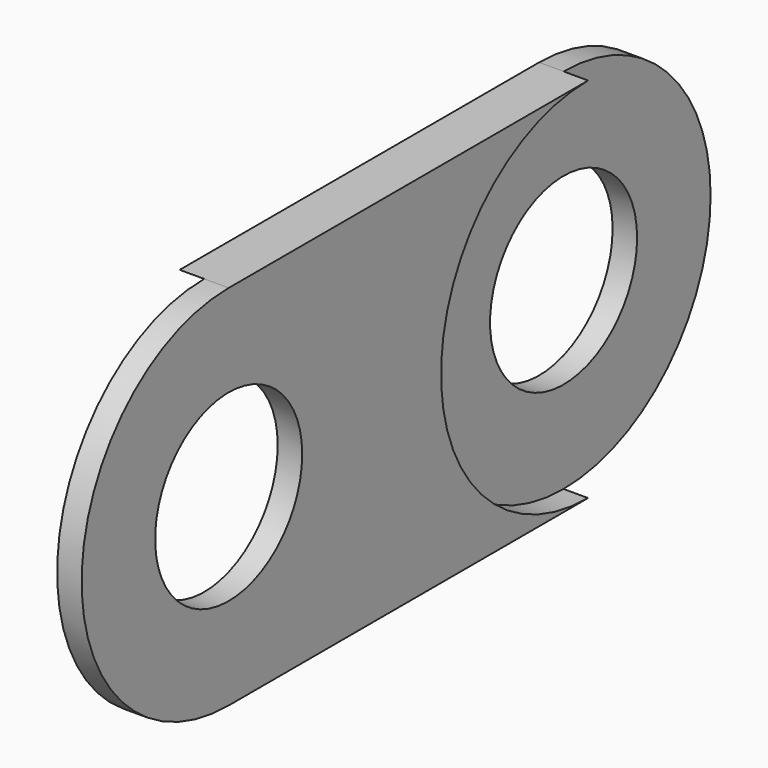
from build123d import *

# Parameters (mm, degrees)
F1_DEPTH      = 3
F1_DEPTH_BACK = 3
F0_R          = 11.25
F2_DEPTH      = 3
F3_DEPTH      = 3


with BuildPart() as f1:
    # F0 (on Right) → F1 (new body, two sides)
    with BuildSketch(Plane.YZ) as f1_sk:
        with BuildLine():
            ThreePointArc((0, 22.5), (15.909903, 15.909903), (22.5, 0))
            ThreePointArc((22.5, 0), (15.909903, -15.909903), (0, -22.5))
            Line((0, -22.5), (55, -22.5))
            ThreePointArc((55, -22.5), (32.5, 0), (55, 22.5))
            Line((55, 22.5), (0, 22.5))
        make_face()
    extrude(amount=F1_DEPTH)
    extrude(f1_sk.sketch, amount=-F1_DEPTH_BACK)

    # F0 (on Right) → F2 (join)
    with BuildSketch(Plane.YZ):
        with BuildLine():
            ThreePointArc((0, -22.5), (15.909903, -15.909903), (22.5, 0))
            ThreePointArc((22.5, 0), (15.909903, 15.909903), (0, 22.5))
            ThreePointArc((0, 22.5), (-22.5, 0), (0, -22.5))
        make_face()
        Circle(F0_R, mode=Mode.SUBTRACT)
    extrude(amount=F2_DEPTH)

    # F0 (on Right) → F3 (join)
    with BuildSketch(Plane.YZ):
        with BuildLine():
            ThreePointArc((77.5, 0), (70.909903, 15.909903), (55, 22.5))
            ThreePointArc((55, 22.5), (32.5, 0), (55, -22.5))
            ThreePointArc((55, -22.5), (70.909903, -15.909903), (77.5, 0))
        make_face()
        with Locations((55, 0)):
            Circle(F0_R, mode=Mode.SUBTRACT)
    extrude(amount=-F3_DEPTH)


solid = f1.part
